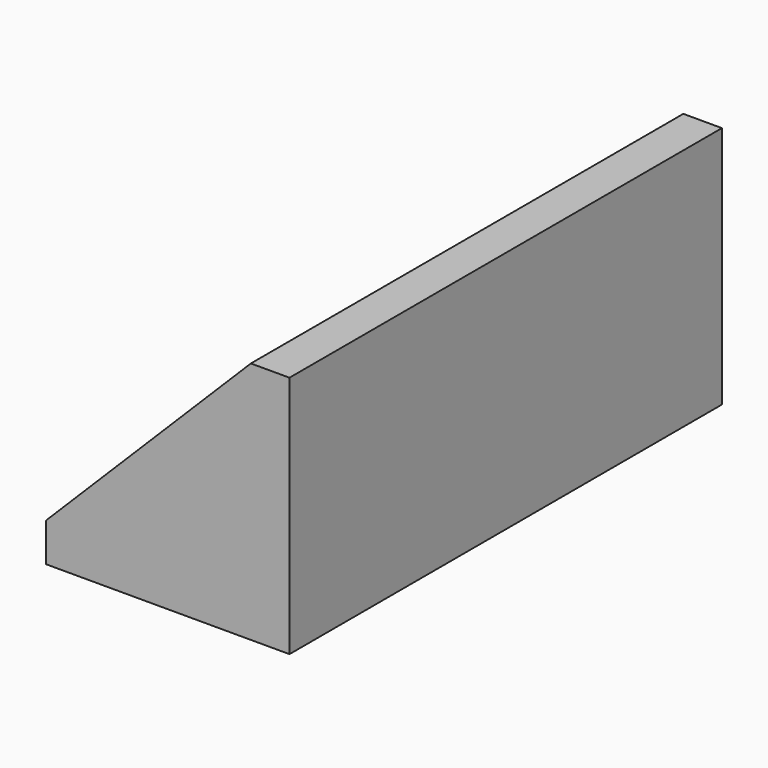
from build123d import *

# Parameters (mm, degrees)
PAD_DEPTH       = 70
PAD_DEPTH_BACK  = 70
SKETCH001_W     = 56
SKETCH001_H     = 110
POCKET_DEPTH    = 5
SKETCH002_W     = 55
SKETCH002_H     = 85
POCKET001_DEPTH = 1
SKETCH003_R     = 7.812733
PAD001_DEPTH    = 2


with BuildPart() as part:
    # Sketch → Pad (new body, two sides)
    with BuildSketch(Plane.XZ) as pad_sk:
        Polygon((-63.033008589, 0), (-63.033008589, 10), (-10, 63.033008589), (0, 63.033008589), (0, 0), align=None)
    extrude(amount=PAD_DEPTH)
    extrude(pad_sk.sketch, amount=-PAD_DEPTH_BACK)

    # Sketch001 (on Face2 of Pad) → Pocket (cut)
    with BuildSketch(Plane(origin=(-36.5165042945, 0, 36.5165042945), x_dir=(-0.7071067812, 0, -0.7071067812), z_dir=(-0.7071067812, 0, 0.7071067812))):
        Rectangle(SKETCH001_W, SKETCH001_H)
    extrude(amount=-POCKET_DEPTH, mode=Mode.SUBTRACT)

    # Sketch002 (on Face12 of Pocket) → Pocket001 (cut)
    with BuildSketch(Plane(origin=(-32.9809703886, 0, 32.9809703886), x_dir=(-0.7071067812, 0, -0.7071067812), z_dir=(-0.7071067812, 0, 0.7071067812))):
        with Locations((0, -11.6462930524)):
            Rectangle(SKETCH002_W, SKETCH002_H)
    extrude(amount=-POCKET001_DEPTH, mode=Mode.SUBTRACT)

    # Sketch003 (on Face12 of Pocket001) → Pad001 (join)
    with BuildSketch(Plane(origin=(-32.9809703886, 0, 32.9809703886), x_dir=(-0.7071067812, 0, -0.7071067812), z_dir=(-0.7071067812, 0, 0.7071067812))):
        with Locations((0, 43.476822)):
            Circle(SKETCH003_R)
    extrude(amount=PAD001_DEPTH)


solid = part.part
